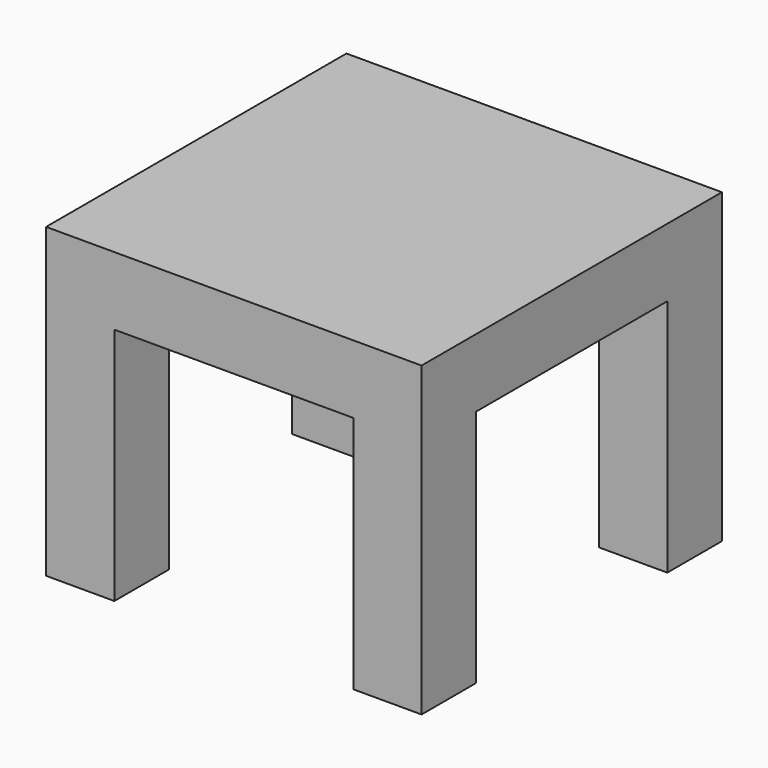
from build123d import *

# Parameters (mm, degrees)
F0_W     = 550
F0_H     = 550
F1_DEPTH = 450
F3_DEPTH = 350


with BuildPart() as f1:
    # F0 (on Top) → F1 (new body)
    with BuildSketch(Plane.XY):
        with Locations((275, 275)):
            Rectangle(F0_W, F0_H)
    extrude(amount=-F1_DEPTH)

    # F2 (on face) → F3 (cut)
    with BuildSketch(Plane(origin=(0, 0, -450), x_dir=(1, 0, 0), z_dir=(0, 0, -1))):
        Polygon((450, 0), (100, 0), (100, -100), (0, -100), (0, -450), (100, -450), (100, -550), (450, -550), (450, -450), (550, -450), (550, -100), (450, -100), align=None)
    extrude(amount=-F3_DEPTH, mode=Mode.SUBTRACT)


solid = f1.part
